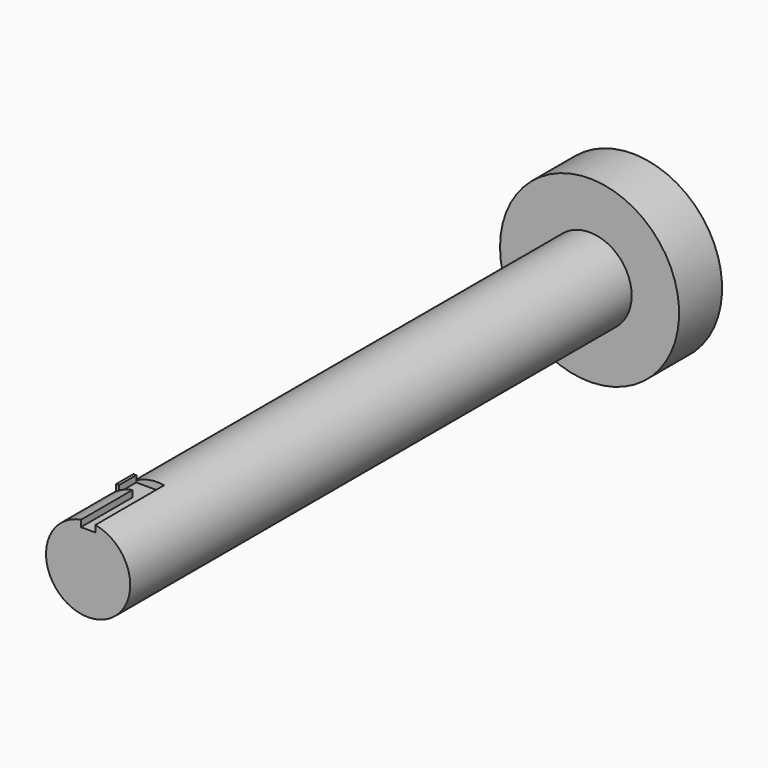
from build123d import *

# Parameters (mm, degrees)
F0_R      = 2.9845
F1_DEPTH  = 44.45
F3_R      = 6.35
F4_DEPTH  = 3.81
F5_W      = 1.016
F5_H      = 1.016
F6_DEPTH  = 25.4
F8_DEPTH  = 1.524
F9_W      = 0.2032
F9_H      = 1.524
F10_DEPTH = 0.4572
F11_DEPTH = 19.304


with BuildPart() as f1:
    # F0 (on Front) → F1 (new body)
    with BuildSketch(Plane.XZ):
        Circle(F0_R)
    extrude(amount=F1_DEPTH)

    # F3 (on face) → F4 (join)
    with BuildSketch(Plane(origin=(0, 0, 0), x_dir=(-1, 0, 0), z_dir=(0, 1, 0))):
        Circle(F3_R)
    extrude(amount=F4_DEPTH)

    # F5 (on face) → F6 (cut)
    with BuildSketch(Plane.XZ.offset(44.45)):
        with Locations((0, 2.9843547381)):
            Rectangle(F5_W, F5_H)
    extrude(amount=-F6_DEPTH, mode=Mode.SUBTRACT)

    # F7 (on face) → F8 (cut)
    with BuildSketch(Plane.YZ.offset(-0.508)):
        Polygon((-39.878, 2.9409481889), (-39.878, 2.7086514635), (-39.878, 2.4763547381), (-38.354, 2.4763547381), (-38.354, 2.9409481889), align=None)
    extrude(amount=-F8_DEPTH, mode=Mode.SUBTRACT)

    # F9 (on face) → F10 (join)
    with BuildSketch(Plane.XY.offset(2.4763547381)):
        with Locations((-1.564205349, -39.116)):
            Rectangle(F9_W, F9_H)
    extrude(amount=F10_DEPTH)

    # F11 (add): a face of the model
    f11_faces = [f1.faces().sort_by_distance(p)[0] for p in [
        (0, -19.05, 2.7233604539),
    ]]
    extrude(f11_faces, amount=F11_DEPTH)


solid = f1.part
